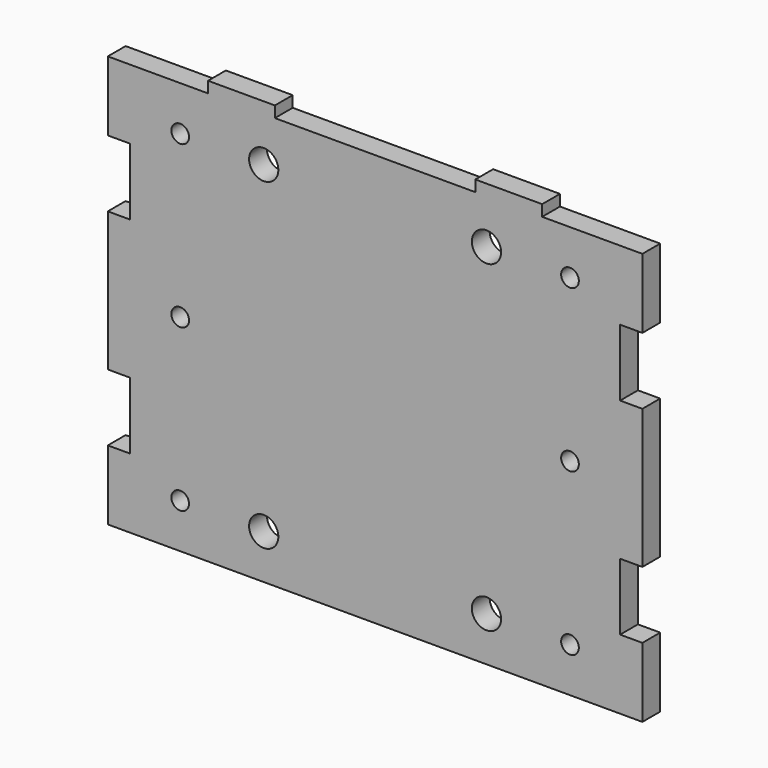
from build123d import *

# Parameters (mm, degrees)
F0_W     = 304.8
F0_H     = 234.95
F1_DEPTH = 12.7
F3_D     = 16.66748
F5_D     = 10.0838
F6_W     = 12.7
F6_H     = 38.1
F7_DEPTH = 25.4
F8_W     = 38.1
F8_H     = 6.35
F9_DEPTH = 12.7


with BuildPart() as f1:
    # F0 (on Front) → F1 (new body)
    with BuildSketch(Plane.XZ):
        with Locations((152.4, 117.475)):
            Rectangle(F0_W, F0_H)
    extrude(amount=F1_DEPTH)

    # F3 (through all)
    with Locations(Plane.XZ.offset(12.7)):
        with Locations((215.9, 25.4), (88.9, 25.4), (88.9, 209.55), (215.9, 209.55)):
            Hole(F3_D / 2)

    # F5 (through all)
    with Locations(Plane.XZ.offset(12.7)):
        with Locations((263.525, 25.4), (263.525, 209.55), (41.275, 209.55), (41.275, 25.4), (41.275, 117.475), (263.525, 117.475)):
            Hole(F5_D / 2)

    # F6 (on face) → F7 (cut)
    with BuildSketch(Plane.XZ.offset(12.7)):
        with Locations((298.45, 58.7375)):
            Rectangle(F6_W, F6_H)
        with Locations((6.35, 58.7375)):
            Rectangle(F6_W, F6_H)
        with Locations((6.35, 176.2125)):
            Rectangle(F6_W, F6_H)
        with Locations((298.45, 176.2125)):
            Rectangle(F6_W, F6_H)
    extrude(amount=-F7_DEPTH, mode=Mode.SUBTRACT)

    # F8 (on face) → F9 (join)
    with BuildSketch(Plane.XZ.offset(12.7)):
        with Locations((76.2, 238.125)):
            Rectangle(F8_W, F8_H)
        with Locations((228.6, 238.125)):
            Rectangle(F8_W, F8_H)
    extrude(amount=-F9_DEPTH)


solid = f1.part
